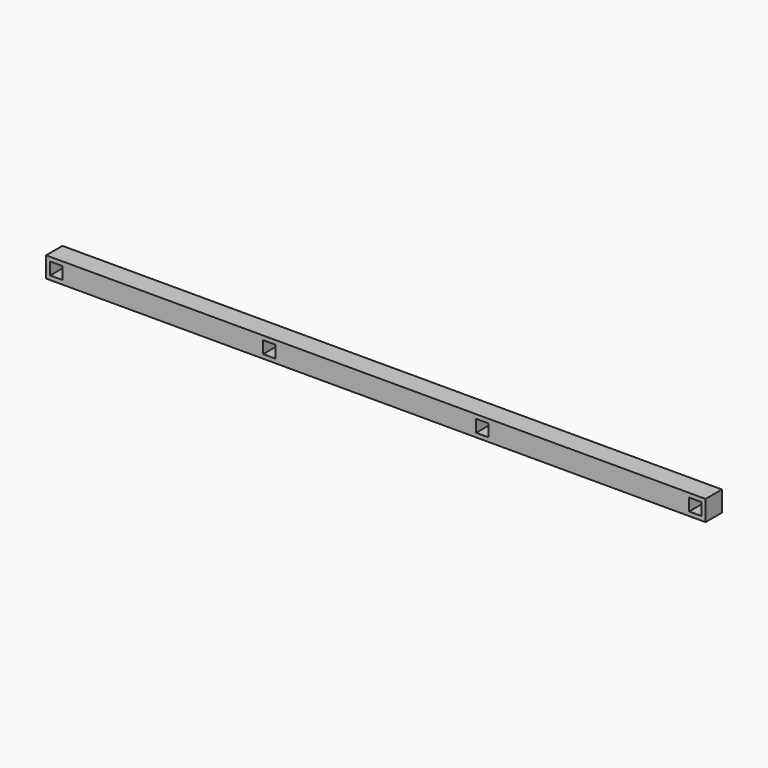
from build123d import *

# Parameters (mm, degrees)
F0_W     = 3220
F0_H     = 100
F1_DEPTH = 100
F2_W     = 60
F2_H     = 60
F3_DEPTH = 100.001


with BuildPart() as f1:
    # F0 (on Front) → F1 (new body)
    with BuildSketch(Plane.XZ):
        with Locations((1610, 50)):
            Rectangle(F0_W, F0_H)
    extrude(amount=F1_DEPTH)

    # F2 (on face) → F3 (cut, through all)
    with BuildSketch(Plane.XZ.offset(100)):
        with Locations((50, 50)):
            Rectangle(F2_W, F2_H)
        with Locations((1090, 50)):
            Rectangle(F2_W, F2_H)
        with Locations((2130, 50)):
            Rectangle(F2_W, F2_H)
        with Locations((3170, 50)):
            Rectangle(F2_W, F2_H)
    extrude(amount=-F3_DEPTH, mode=Mode.SUBTRACT)


solid = f1.part
